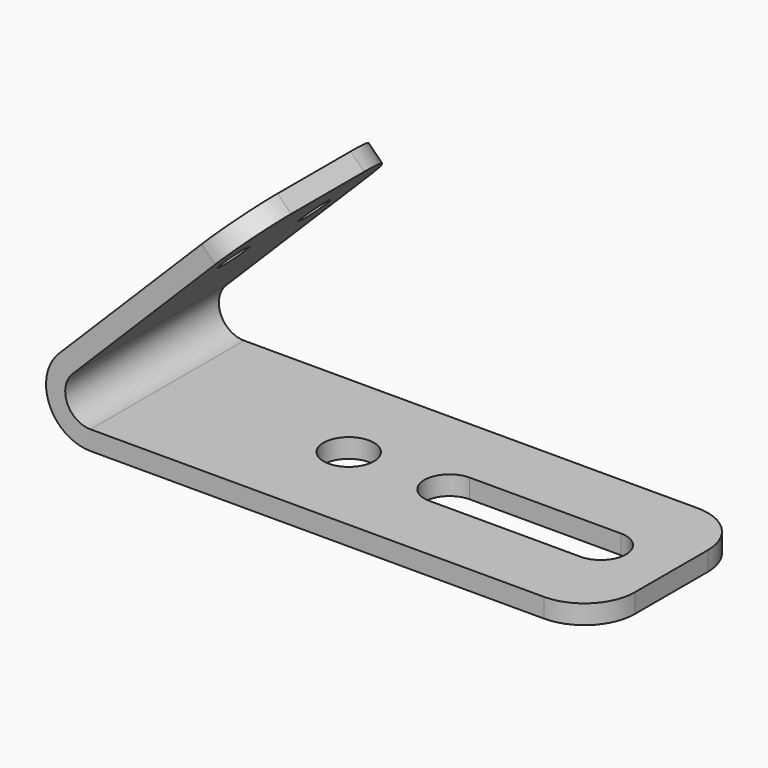
from build123d import *

# Parameters (mm, degrees)
F1_DEPTH = 19.05
F2_R     = 5
F3_R     = 1.5
F4_DEPTH = 1.9
F5_R     = 2.5
F6_DEPTH = 1.901


with BuildPart() as f1:
    # F0 (on Front) → F1 (new body)
    with BuildSketch(Plane.XZ):
        with BuildLine():
            Line((-50, 0), (0, 0))
            Line((0, 0), (0, 1.9))
            Line((0, 1.9), (-50, 1.9))
            ThreePointArc((-50, 1.9), (-52.3096988313, 3.4432914191), (-51.767766953, 6.167766953))
            Line((-51.767766953, 6.167766953), (-34.0900974233, 23.8454364826))
            Line((-34.0900974233, 23.8454364826), (-35.4336003076, 25.1889393669))
            Line((-35.4336003076, 25.1889393669), (-53.1112698372, 7.5112698372))
            ThreePointArc((-53.1112698372, 7.5112698372), (-54.065069943, 2.7161928976), (-50, 0))
        make_face()
    extrude(amount=F1_DEPTH)

    # F2
    f2_edges = [f1.edges().sort_by_distance(p)[0] for p in [
        (-34.761849, -19.05, 24.517188),
        (-34.761849, 0, 24.517188),
        (0, 0, 0.95),
        (0, -19.05, 0.95),
    ]]
    fillet(f2_edges, radius=F2_R)

    # F3 (on face) → F4 (cut, through all)
    with BuildSketch(Plane(origin=(-30.3112698372, 0, 30.3112698372), x_dir=(0, -1, 0), z_dir=(-0.7071067812, 0, 0.7071067812))):
        with Locations((14.55, -14.7691320366)):
            Circle(F3_R)
        with Locations((4.5, -14.7691320366)):
            Circle(F3_R)
    extrude(amount=-F4_DEPTH, mode=Mode.SUBTRACT)

    # F5 (on face) → F6 (cut, through all)
    with BuildSketch(Plane.XY.offset(1.9)):
        with BuildLine():
            ThreePointArc((-6.9996106977, -12.025), (-4.4996106977, -9.525), (-6.9996106977, -7.025))
            Line((-6.9996106977, -7.025), (-21.9996106977, -7.025))
            ThreePointArc((-21.9996106977, -7.025), (-24.4996106977, -9.525), (-21.9996106977, -12.025))
            Line((-21.9996106977, -12.025), (-6.9996106977, -12.025))
        make_face()
        with Locations((-32, -9.525)):
            Circle(F5_R)
    extrude(amount=-F6_DEPTH, mode=Mode.SUBTRACT)


solid = f1.part
